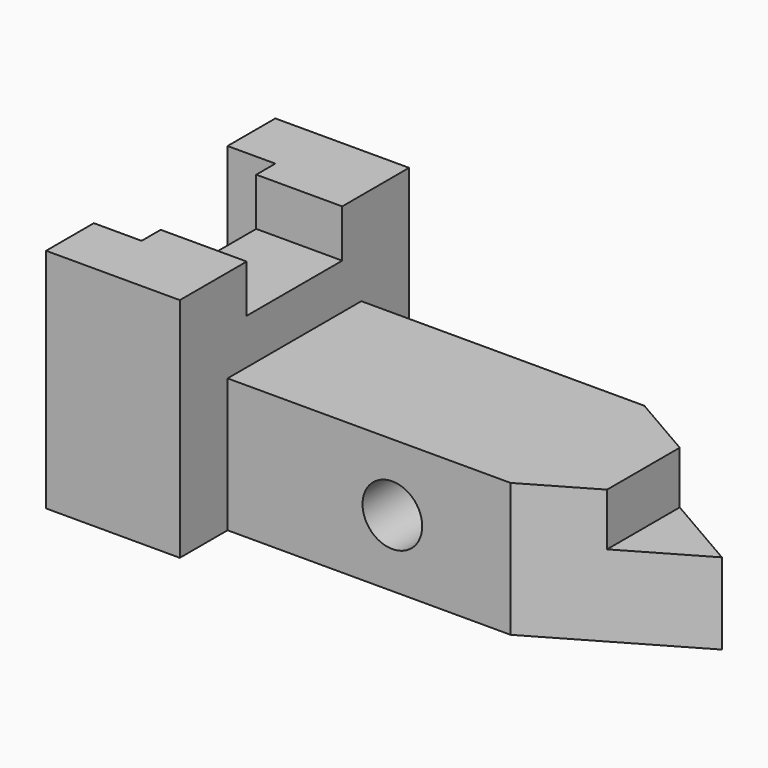
from build123d import *

# Parameters (mm, degrees)
F1_DEPTH = 48.26
F3_DEPTH = 18.288
F5_DEPTH = 28.448
F7_DEPTH = 11.176
F8_R     = 6.35
F9_DEPTH = 35.56


with BuildPart() as f1:
    # F0 (on Top) → F1 (new body)
    with BuildSketch(Plane.XY):
        Polygon((-28.448, 0), (0, 0), (0, 30.48), (0, 60.96), (-28.448, 60.96), (-28.448, 48.26), (-18.288, 48.26), (-18.288, 43.18), (-18.288, 30.48), (-18.288, 17.78), (-18.288, 12.7), (-28.448, 12.7), align=None)
    extrude(amount=F1_DEPTH)

    # F2 (on face) → F3 (cut, through all)
    with BuildSketch(Plane.YZ):
        Polygon((17.78, 38.1), (30.48, 38.1), (43.18, 38.1), (43.18, 48.26), (30.48, 48.26), (17.78, 48.26), align=None)
    extrude(amount=-F3_DEPTH, mode=Mode.SUBTRACT)

    # F4 (on Top) → F5 (join)
    with BuildSketch(Plane.XY):
        Polygon((0, 30.48), (0, 12.7), (60.198, 12.7), (90.932, 30.48), (60.198, 48.26), (0, 48.26), align=None)
    extrude(amount=F5_DEPTH)

    # F6 (on face) → F7 (cut)
    with BuildSketch(Plane.XY.offset(28.448)):
        Polygon((74.22266, 20.81344), (90.932, 30.48), (74.22266, 40.14656), align=None)
    extrude(amount=-F7_DEPTH, mode=Mode.SUBTRACT)

    # F8 (on face) → F9 (cut, through all)
    with BuildSketch(Plane.XZ.offset(-12.7)):
        with Locations((35.052, 14.224)):
            Circle(F8_R)
    extrude(amount=-F9_DEPTH, mode=Mode.SUBTRACT)


solid = f1.part
